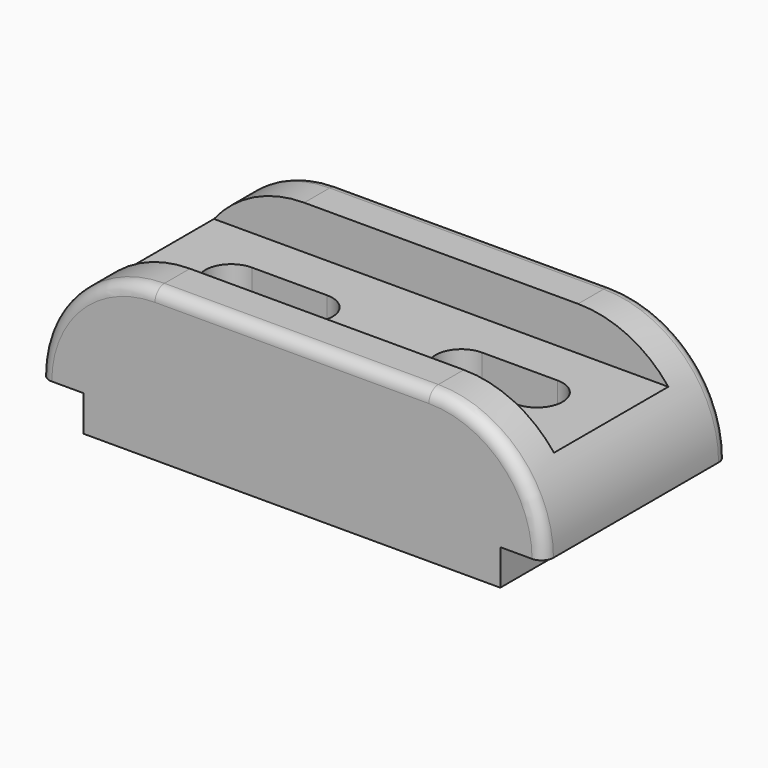
from build123d import *

# Parameters (mm, degrees)
F1_DEPTH = 29
F3_START = -11
F3_DEPTH = 36
F4_R     = 3
F6_DEPTH = 38.001


with BuildPart() as f1:
    # F0 (on Front) → F1 (new body, symmetric)
    with BuildSketch(Plane.XZ):
        with BuildLine():
            Line((0, 9), (0, 0))
            Line((0, 0), (105, 0))
            Line((105, 0), (105, 9))
            Line((105, 9), (116, 9))
            ThreePointArc((116, 9), (107.5060966544, 29.5060966544), (87, 38))
            Line((87, 38), (18, 38))
            ThreePointArc((18, 38), (-2.5060966544, 29.5060966544), (-11, 9))
            Line((-11, 9), (0, 9))
        make_face()
    extrude(amount=F1_DEPTH, both=True)

    # F2 (on face) → F3 (cut)
    with BuildSketch(Plane.XZ.offset(29).offset(F3_START)):
        with BuildLine():
            ThreePointArc((18, 38), (5.3706690597, 35.1055549644), (-4.7376340018, 27))
            Line((-4.7376340018, 27), (109.7376340018, 27))
            ThreePointArc((109.7376340018, 27), (99.6293309403, 35.1055549644), (87, 38))
            Line((87, 38), (18, 38))
        make_face()
    extrude(amount=-F3_DEPTH, mode=Mode.SUBTRACT)

    # F4
    f4_edges = [f1.edges().sort_by_distance(p)[0] for p in [
        (52.5, -29, 38),
        (52.5, 29, 38),
    ]]
    fillet(f4_edges, radius=F4_R)

    # F5 (on face) → F6 (cut, through all)
    with BuildSketch(Plane(origin=(0, 0, 0), x_dir=(1, 0, 0), z_dir=(0, 0, -1))):
        with BuildLine():
            ThreePointArc((14, 6.5), (7.5, 0), (14, -6.5))
            Line((14, -6.5), (33, -6.5))
            ThreePointArc((33, -6.5), (39.5, 0), (33, 6.5))
            Line((33, 6.5), (14, 6.5))
        make_face()
        with BuildLine():
            ThreePointArc((72, 6.5), (65.5, 0), (72, -6.5))
            Line((72, -6.5), (91, -6.5))
            ThreePointArc((91, -6.5), (97.5, 0), (91, 6.5))
            Line((91, 6.5), (72, 6.5))
        make_face()
    extrude(amount=-F6_DEPTH, mode=Mode.SUBTRACT)


solid = f1.part
